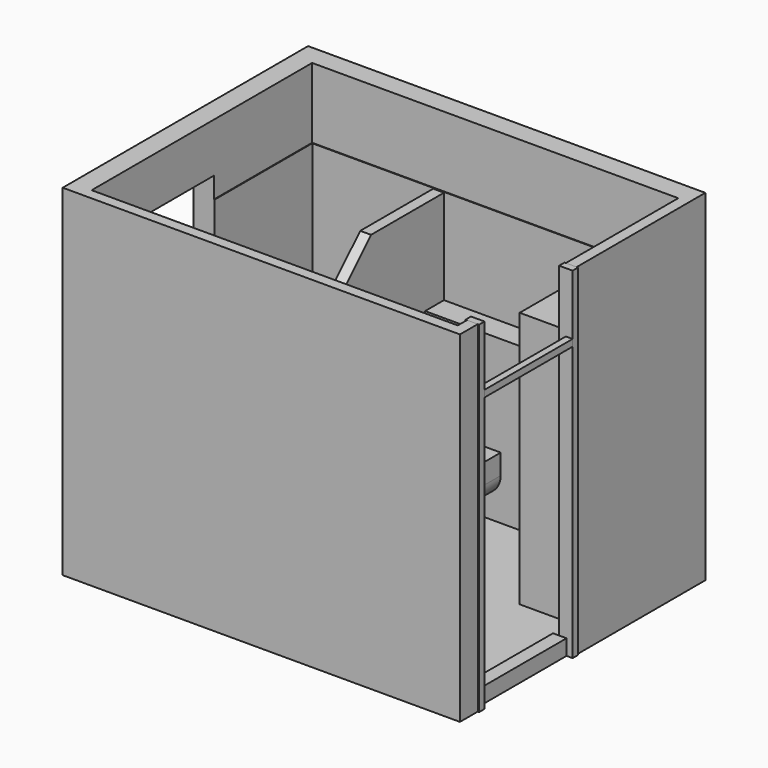
from build123d import *

# Parameters (mm, degrees)
F0_W           = 2710
F0_H           = 2040
F1_DEPTH       = 100
F3_DEPTH       = 2425
F3_DEPTH_BACK  = 100
F4_W           = 1130
F4_H           = 600
F5_DEPTH       = 150.001
F6_W           = 100
F6_H           = 50
F7_DEPTH       = 2425
F7_DEPTH_BACK  = 100
F8_W           = 50
F8_H           = 50
F9_DEPTH       = 815
F10_W          = 100
F10_H          = 815
F11_DEPTH      = 15
F11_DEPTH_BACK = 100
F14_DEPTH      = 5
F16_DEPTH      = 5
F17_W          = 2710
F17_H          = 1905
F18_DEPTH      = 5
F19_R          = 55
F20_DEPTH      = 150.001
F21_W          = 750
F21_H          = 180
F22_DEPTH      = 1200
F24_DEPTH      = 1900
F26_DEPTH      = 380
F28_DEPTH      = 300
F31_DEPTH      = 300
F32_R          = 150
F35_DEPTH      = 150
F37_DEPTH      = 100
F38_W          = 400
F38_H          = 900
F39_DEPTH      = 1900
F40_W          = 800
F40_H          = 412.5
F41_DEPTH      = 449.4704246521
F43_W          = 1000
F43_H          = 700
F44_DEPTH      = 5


with BuildPart() as f1:
    # F0 (on Top) → F1 (new body)
    with BuildSketch(Plane.XY):
        with Locations((1355, 1020)):
            Rectangle(F0_W, F0_H)
    extrude(amount=-F1_DEPTH)


with BuildPart() as f3:
    # F2 (on Top) → F3 (new body, two sides)
    with BuildSketch(Plane.XY) as f3_sk:
        Polygon((2710, 85), (2710, 0), (0, 0), (0, 2040), (2710, 2040), (2710, 1000), (2790, 1000), (2790, 2190), (-150, 2190), (-150, -80), (2790, -80), (2790, 85), align=None)
    extrude(amount=F3_DEPTH)
    extrude(f3_sk.sketch, amount=-F3_DEPTH_BACK)

    # F4 (on face) → F5 (cut, through all)
    with BuildSketch(Plane.YZ):
        with Locations((565, 1760)):
            Rectangle(F4_W, F4_H)
    extrude(amount=-F5_DEPTH, mode=Mode.SUBTRACT)

    # F19 (on face) → F20 (cut, through all)
    with BuildSketch(Plane.XZ.offset(-2040)):
        with Locations((1355, 150)):
            Circle(F19_R)
    extrude(amount=-F20_DEPTH, mode=Mode.SUBTRACT)


with BuildPart() as f7:
    # F6 (on face) → F7 (new body, two sides)
    with BuildSketch(Plane.XY) as f7_sk:
        with Locations((2750, 110)):
            Rectangle(F6_W, F6_H)
    extrude(amount=F7_DEPTH)
    extrude(f7_sk.sketch, amount=-F7_DEPTH_BACK)


with BuildPart() as f7b:
    # F6 (on face) → F7, piece 2 (new body, two sides)
    with BuildSketch(Plane.XY) as f7_2_sk:
        with Locations((2750, 975)):
            Rectangle(F6_W, F6_H)
    extrude(amount=F7_DEPTH)
    extrude(f7_2_sk.sketch, amount=-F7_DEPTH_BACK)


with BuildPart() as f9:
    # F8 (on face) → F9 (new body, through all)
    with BuildSketch(Plane(origin=(0, 135, 0), x_dir=(-1, 0, 0), z_dir=(0, 1, 0))):
        with Locations((-2775, 1955)):
            Rectangle(F8_W, F8_H)
    extrude(amount=F9_DEPTH)


with BuildPart() as f11:
    # F10 (on face) → F11 (new body, two sides)
    with BuildSketch(Plane.XY) as f11_sk:
        with Locations((2705, 542.5)):
            Rectangle(F10_W, F10_H)
    extrude(amount=F11_DEPTH)
    extrude(f11_sk.sketch, amount=-F11_DEPTH_BACK)


with BuildPart() as f14:
    # F13 (on face) → F14 (new body)
    with BuildSketch(Plane(origin=(0, 0, 0), x_dir=(-1, 0, 0), z_dir=(0, 1, 0))):
        Polygon((-2710, 1905), (-2710, 0), (0, 0), (0, 1460), (150, 1460), (150, 1905), align=None)
    extrude(amount=F14_DEPTH)

    # F43 (on face) → F44 (join)
    with BuildSketch(Plane(origin=(0, 5, 0), x_dir=(-1, 0, 0), z_dir=(0, 1, 0))):
        with Locations((-1400, 1380)):
            Rectangle(F43_W, F43_H)
    extrude(amount=F44_DEPTH)


with BuildPart() as f16:
    # F15 (on face) → F16 (new body)
    with BuildSketch(Plane.YZ):
        Polygon((2040, 1905), (1130, 1905), (1130, 1460), (0, 1460), (0, 0), (2040, 0), align=None)
    extrude(amount=F16_DEPTH)


with BuildPart() as f18:
    # F17 (on face) → F18 (new body)
    with BuildSketch(Plane.XZ.offset(-2040)):
        with Locations((1355, 952.5)):
            Rectangle(F17_W, F17_H)
    extrude(amount=F18_DEPTH)


with BuildPart() as f22:
    # F21 (on face) → F22 (new body)
    with BuildSketch(Plane.XY):
        with Locations((1355, 1950)):
            Rectangle(F21_W, F21_H)
    extrude(amount=F22_DEPTH)

    # F30 (on offset) → F31 (join)
    with BuildSketch(Plane.XY.offset(460)):
        with BuildLine():
            Line((1540, 1860), (1170, 1860))
            Line((1170, 1860), (1170, 1525))
            ThreePointArc((1170, 1525), (1355, 1340), (1540, 1525))
            Line((1540, 1525), (1540, 1860))
        make_face()
    extrude(amount=-F31_DEPTH)

    # F32
    f32_edges = [f22.edges().sort_by_distance(p)[0] for p in [
        (1540, 1692.5, 160),
        (1355, 1340, 160),
        (1170, 1692.5, 160),
    ]]
    fillet(f32_edges, radius=F32_R)


with BuildPart() as f24:
    # F23 (on face) → F24 (new body)
    with BuildSketch(Plane.XY):
        Polygon((980, 1060), (980, 2040), (900, 2040), (900, 1140), (600, 1140), (600, 1060), align=None)
    extrude(amount=F24_DEPTH)

    # F25 (on face) → F26 (cut, through all)
    with BuildSketch(Plane.YZ.offset(980)):
        Polygon((1360, 1900), (1060, 1900), (1060, 1600), align=None)
    extrude(amount=-F26_DEPTH, mode=Mode.SUBTRACT)

    # F27 (on face) → F28 (cut, through all)
    with BuildSketch(Plane(origin=(600, 0, 0), x_dir=(0, -1, 0), z_dir=(-1, 0, 0))):
        Polygon((-1140, 1600), (-1060, 1600), (-1140, 1680), align=None)
    extrude(amount=-F28_DEPTH, mode=Mode.SUBTRACT)


with BuildPart() as f35:
    # F34 (on offset) → F35 (new body)
    with BuildSketch(Plane.XY.offset(880)):
        with BuildLine():
            Line((900, 300), (900, 0))
            Line((900, 0), (1900, 0))
            Line((1900, 0), (1900, 300))
            ThreePointArc((1900, 300), (1856.066017178, 406.066017178), (1750, 450))
            Line((1750, 450), (1050, 450))
            ThreePointArc((1050, 450), (943.933982822, 406.066017178), (900, 300))
        make_face()
    extrude(amount=-F35_DEPTH)

    # F36 (on face) → F37 (cut)
    with BuildSketch(Plane.XY.offset(880)):
        with BuildLine():
            Line((950, 300), (950, 100))
            Line((950, 100), (1850, 100))
            Line((1850, 100), (1850, 300))
            ThreePointArc((1850, 300), (1820.7106781187, 370.7106781187), (1750, 400))
            Line((1750, 400), (1050, 400))
            ThreePointArc((1050, 400), (979.2893218813, 370.7106781187), (950, 300))
        make_face()
    extrude(amount=-F37_DEPTH, mode=Mode.SUBTRACT)


with BuildPart() as f39:
    # F38 (on face) → F39 (new body)
    with BuildSketch(Plane.XY):
        with Locations((2460.5295753479, 1585)):
            Rectangle(F38_W, F38_H)
    extrude(amount=F39_DEPTH)

    # F40 (on face) → F41 (cut, through all)
    with BuildSketch(Plane(origin=(2260.5295753479, 0, 0), x_dir=(0, -1, 0), z_dir=(-1, 0, 0))):
        with Locations((-1585, 1643.75)):
            Rectangle(F40_W, F40_H)
        with Locations((-1585, 1181.25)):
            Rectangle(F40_W, F40_H)
        with Locations((-1585, 718.75)):
            Rectangle(F40_W, F40_H)
        with Locations((-1585, 256.25)):
            Rectangle(F40_W, F40_H)
    extrude(amount=-F41_DEPTH, mode=Mode.SUBTRACT)


solid = Compound([f1.part, f3.part, f7.part, f7b.part, f9.part, f11.part, f14.part, f16.part, f18.part, f22.part, f24.part, f35.part, f39.part])
